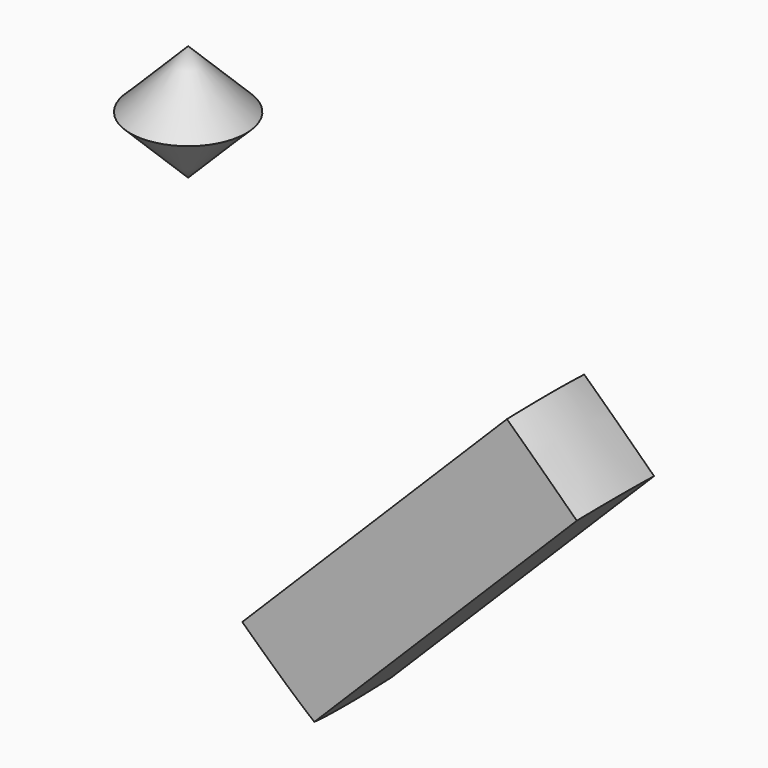
from build123d import *

# Parameters (mm, degrees)
F5_DEPTH = 12.5


with BuildPart() as f1:
    # F0 (on Front) → F1 (revolve)
    with BuildSketch(Plane.XZ):
        Polygon((0, -70.710678), (0, 70.710678), (-70.710678, 0), align=None)
    revolve(axis=Axis((0, 0, -1.175915), (0, 0, -1)))


with BuildPart() as f3:
    # F2 (on Front) → F3 (revolve)
    with BuildSketch(Plane.XZ):
        Polygon((-60, 55.710678), (-45, 70.710678), (-60, 85.710678), align=None)
    revolve(axis=Axis((-60, 0, 69.177093), (0, 0, 1)))


with BuildPart() as f5:
    # F4 (on Front) → F5 (new body, symmetric)
    with BuildSketch(Plane.XZ):
        Polygon((67.67767, 35.710678), (50, 53.388348), (-56.066017, -52.67767), (-38.388348, -70.355339), align=None)
    extrude(amount=F5_DEPTH, both=True)

    # F6: intersect F1
    add(f1.part, mode=Mode.INTERSECT)


solid = Compound([f3.part, f5.part])
